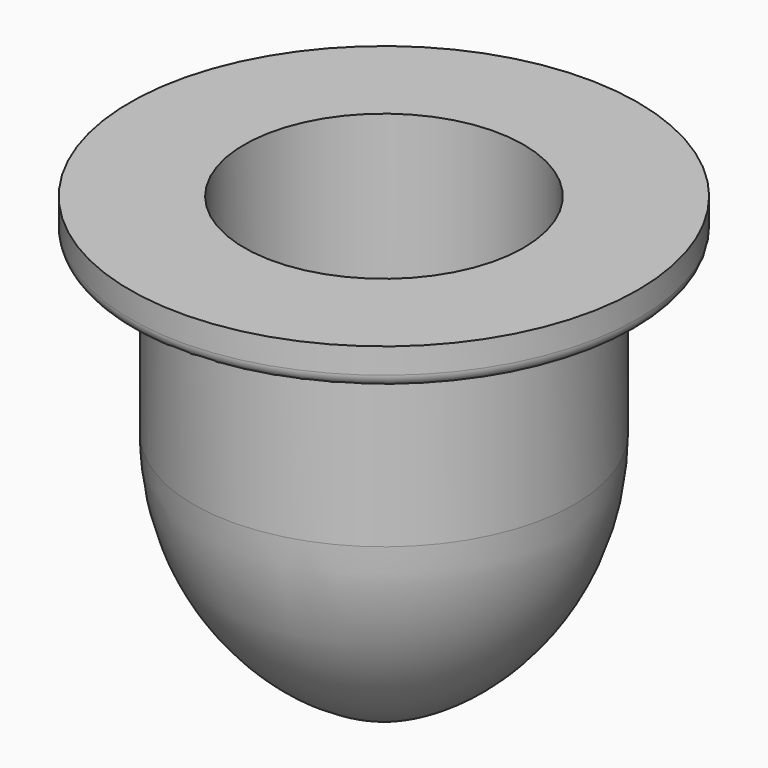
from build123d import *


with BuildPart() as f1:
    # F0 (on Front) → F1 (revolve)
    with BuildSketch(Plane.XZ):
        with BuildLine():
            Line((15, -13.497519), (15, 0))
            Line((15, 0), (19, 0))
            ThreePointArc((19, 0), (19.707107, 0.292893), (20, 1))
            Line((20, 1), (20, 3))
            Line((20, 3), (11, 3))
            Line((11, 3), (11, -12.336921))
            ThreePointArc((11, -12.336921), (10.389852, -15.776498), (8.633863, -18.796344))
            Line((8.633863, -18.796344), (0, -29))
            Line((0, -29), (0, -33))
            ThreePointArc((0, -33), (2.485907, -32.079815), (4.858968, -30.898689))
            ThreePointArc((4.858968, -30.898689), (12.279748, -23.567787), (15, -13.497519))
        make_face()
    revolve(axis=Axis((0, 0, -10), (0, 0, -1)))


solid = f1.part
